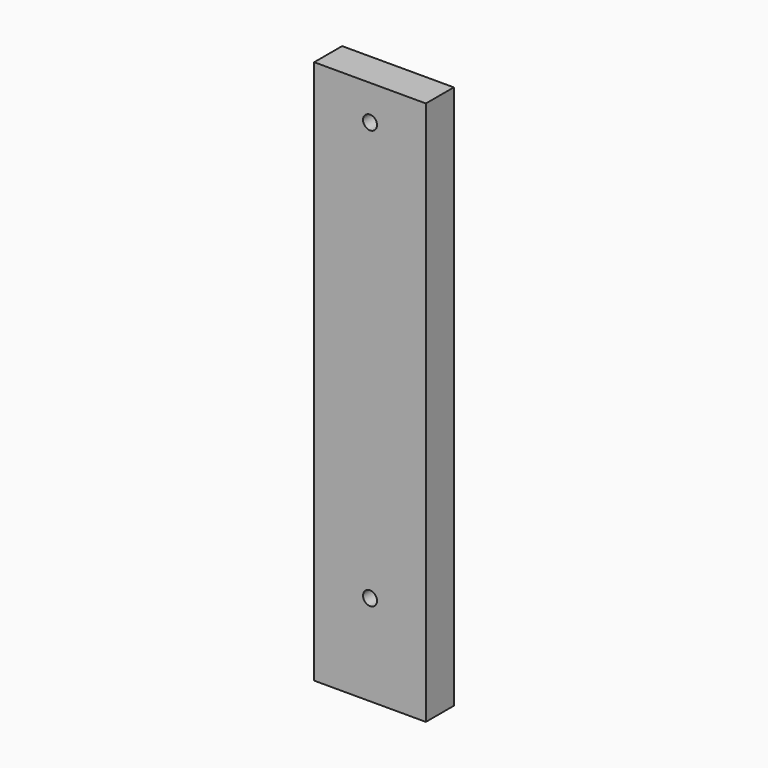
from build123d import *

# Parameters (mm, degrees)
F0_W     = 40
F0_H     = 300
F0_H_2   = 25
F0_H_3   = 65
F1_DEPTH = 25
F2_D     = 10


with BuildPart() as f1:
    # F0 (on Front) → F1 (new body)
    with BuildSketch(Plane.XZ):
        with Locations((-20, 20)):
            Rectangle(F0_W, F0_H)
        with Locations((20, 20)):
            Rectangle(F0_W, F0_H)
        with Locations((20, 182.5)):
            Rectangle(F0_W, F0_H_2)
        with Locations((-20, 182.5)):
            Rectangle(F0_W, F0_H_2)
        with Locations((20, -162.5)):
            Rectangle(F0_W, F0_H_3)
        with Locations((-20, -162.5)):
            Rectangle(F0_W, F0_H_3)
    extrude(amount=-F1_DEPTH)

    # F2 (through all)
    with Locations(Plane.XZ):
        with Locations((0, 170), (0, -130)):
            Hole(F2_D / 2)


solid = f1.part
